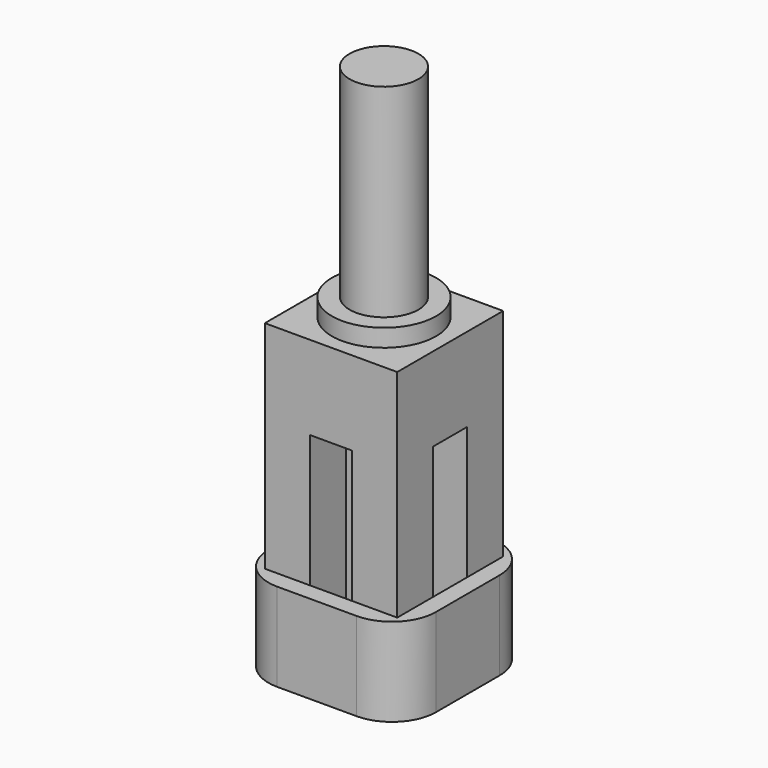
from build123d import *

# Parameters (mm, degrees)
F0_W      = 15
F0_H      = 15
F1_DEPTH  = 7.5
F2_DEPTH  = 2
F3_W      = 5.1
F3_H      = 5.1
F4_DEPTH  = 25
F5_DEPTH  = 2
F6_W      = 19
F6_H      = 19
F7_DEPTH  = 10
F8_R      = 5
F9_R      = 5.9
F9_R_2    = 3.9
F10_DEPTH = 2
F11_DEPTH = 25


with BuildPart() as f1:
    # F0 (on Top) → F1 (new body)
    with BuildSketch(Plane.XY):
        Rectangle(F0_W, F0_H)
        with BuildLine():
            ThreePointArc((3.7416573868, 1.1), (3.8602113808, 0.5556690524), (3.9, 0))
            ThreePointArc((3.9, 0), (3.8602113808, -0.5556690524), (3.7416573868, -1.1))
            ThreePointArc((3.7416573868, -1.1), (0, -3.9), (-3.7416573868, -1.1))
            ThreePointArc((-3.7416573868, -1.1), (-3.9, 0), (-3.7416573868, 1.1))
            ThreePointArc((-3.7416573868, 1.1), (0, 3.9), (3.7416573868, 1.1))
        make_face(mode=Mode.SUBTRACT)
        with BuildLine():
            ThreePointArc((-3.7416573868, -1.1), (0, -3.9), (3.7416573868, -1.1))
            Line((3.7416573868, -1.1), (-3.7416573868, -1.1))
        make_face()
        with BuildLine():
            Line((-3.7416573868, 1.1), (3.7416573868, 1.1))
            ThreePointArc((3.7416573868, 1.1), (0, 3.9), (-3.7416573868, 1.1))
        make_face()
        with BuildLine():
            ThreePointArc((3.7416573868, -1.1), (3.8602113808, -0.5556690524), (3.9, 0))
            ThreePointArc((3.9, 0), (3.8602113808, 0.5556690524), (3.7416573868, 1.1))
            Line((3.7416573868, 1.1), (-3.7416573868, 1.1))
            ThreePointArc((-3.7416573868, 1.1), (-3.9, 0), (-3.7416573868, -1.1))
            Line((-3.7416573868, -1.1), (3.7416573868, -1.1))
        make_face()
    extrude(amount=F1_DEPTH)

    # F0 (on Top) → F2 (join)
    with BuildSketch(Plane.XY):
        with BuildLine():
            ThreePointArc((3.7416573868, -1.1), (3.8602113808, -0.5556690524), (3.9, 0))
            ThreePointArc((3.9, 0), (3.8602113808, 0.5556690524), (3.7416573868, 1.1))
            Line((3.7416573868, 1.1), (-3.7416573868, 1.1))
            ThreePointArc((-3.7416573868, 1.1), (-3.9, 0), (-3.7416573868, -1.1))
            Line((-3.7416573868, -1.1), (3.7416573868, -1.1))
        make_face()
    extrude(amount=F2_DEPTH)

    # F3 (on face) → F4 (join)
    with BuildSketch(Plane(origin=(0, 0, 0), x_dir=(1, 0, 0), z_dir=(0, 0, -1))):
        with Locations((-4.95, -4.95)):
            Rectangle(F3_W, F3_H)
        with Locations((4.95, -4.95)):
            Rectangle(F3_W, F3_H)
        with Locations((4.95, 4.95)):
            Rectangle(F3_W, F3_H)
        with Locations((-4.95, 4.95)):
            Rectangle(F3_W, F3_H)
    extrude(amount=F4_DEPTH)

    # F5 (add): a face of the model
    f5_faces = [f1.faces().sort_by_distance(p)[0] for p in [
        (0, 0, 7.5),
    ]]
    extrude(f5_faces, amount=F5_DEPTH)

    # F6 (on face) → F7 (join)
    with BuildSketch(Plane(origin=(0, 0, -25), x_dir=(1, 0, 0), z_dir=(0, 0, -1))):
        Rectangle(F6_W, F6_H)
        Polygon((-7.5, 2.4), (-7.5, 7.5), (-2.4, 7.5), (2.4, 7.5), (7.5, 7.5), (7.5, 2.4), (7.5, -2.4), (7.5, -7.5), (2.4, -7.5), (-2.4, -7.5), (-7.5, -7.5), (-7.5, -2.4), align=None, mode=Mode.SUBTRACT)
    extrude(amount=-F7_DEPTH)

    # F8
    f8_edges = [f1.edges().sort_by_distance(p)[0] for p in [
        (9.5, -9.5, -20),
        (9.5, 9.5, -20),
        (-9.5, 9.5, -20),
        (-9.5, -9.5, -20),
    ]]
    fillet(f8_edges, radius=F8_R)

    # F9 (on face) → F10 (join)
    with BuildSketch(Plane.XY.offset(9.5)):
        Circle(F9_R)
        Circle(F9_R_2, mode=Mode.SUBTRACT)
    extrude(amount=F10_DEPTH)

    # F11 (add): a face of the model
    f11_faces = [f1.faces().sort_by_distance(p)[0] for p in [
        (0, 0, 9.5),
    ]]
    extrude(f11_faces, amount=F11_DEPTH)


solid = f1.part
